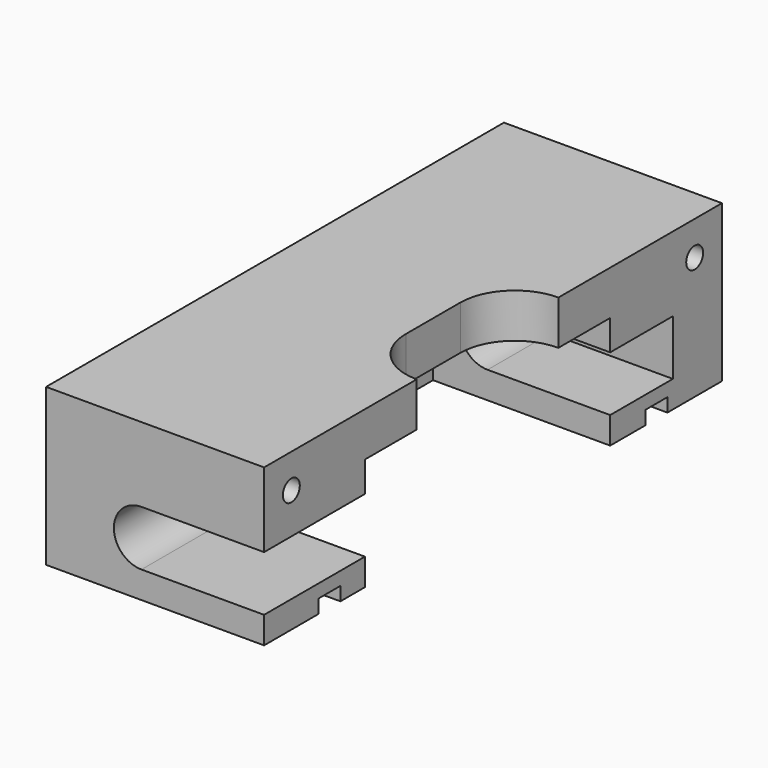
from build123d import *

# Parameters (mm, degrees)
SKETCH014_W     = 32
SKETCH014_H     = 23
PAD010_DEPTH    = 9
PAD011_DEPTH    = 11.5
SKETCH016_W     = 6
SKETCH016_H     = 23
PAD012_DEPTH    = 45
SKETCH017_W     = 26
SKETCH017_H     = 6.5
PAD013_DEPTH    = 45
PAD014_DEPTH    = 18.5
POCKET004_DEPTH = 7
SKETCH020_R     = 1.55
POCKET005_DEPTH = 32.0020324037
SKETCH023_W     = 32
SKETCH023_H     = 4
POCKET008_DEPTH = 2
SKETCH031_R     = 3
POCKET015_DEPTH = 28
SKETCH032_R     = 1.3
POCKET016_DEPTH = 9.0012093656
SKETCH033_R     = 3
POCKET017_DEPTH = 3.2


with BuildPart() as part:
    # Sketch014 (on DatumPlane) → Pad010 (new body)
    with BuildSketch(Plane(origin=(0.0002244487, 42.0000455139, 5.000075686), x_dir=(-0.999999999, 4e-10, 4.48856e-05), z_dir=(0, 1, -9.1023e-06))):
        with Locations((25.9, 0.5)):
            Rectangle(SKETCH014_W, SKETCH014_H)
    extrude(amount=-PAD010_DEPTH)

    # Sketch015 (on Face6 of Pad010) → Pad011 (join)
    with BuildSketch(Plane(origin=(0.0002244487, 33.0000455142, 5.0001576066), x_dir=(-0.999999999, 4e-10, 4.48856e-05), z_dir=(0, -1, 9.1023e-06))):
        with BuildLine():
            Line((41.9, 11), (9.9, 11))
            Line((9.9, 7.05), (9.9, 11))
            Line((27.9, 7.05), (9.9, 7.05))
            ThreePointArc((27.9, -1.05), (31.9500075634, 3), (27.9, 7.05))
            Line((9.9, -1.05), (27.9, -1.05))
            Line((9.9, -1.05), (9.9, -12))
            Line((41.9, -12), (9.9, -12))
            Line((41.9, 11), (41.9, -12))
        make_face()
    extrude(amount=PAD011_DEPTH)

    # Sketch016 (on Face3 of Pad011) → Pad012 (join)
    with BuildSketch(Plane(origin=(0.0002244487, 21.5000455147, 5.0002622829), x_dir=(-0.999999999, 4e-10, 4.48856e-05), z_dir=(0, -1, 9.1023e-06))):
        with Locations((38.9, -0.5)):
            Rectangle(SKETCH016_W, SKETCH016_H)
    extrude(amount=PAD012_DEPTH)

    # Sketch017 (on Face6 of Pad012) → Pad013 (join)
    with BuildSketch(Plane(origin=(0.0002244487, 21.5000455147, 5.0002622829), x_dir=(-0.999999999, 4e-10, 4.48856e-05), z_dir=(0, -1, 9.1023e-06))):
        with Locations((22.9, -8.75)):
            Rectangle(SKETCH017_W, SKETCH017_H)
    extrude(amount=PAD013_DEPTH)

    # Sketch018 (on Face13 of Pad013) → Pad014 (join)
    with BuildSketch(Plane(origin=(0.0002244487, -23.4999544834, 5.0006718856), x_dir=(-0.999999999, 4e-10, 4.48856e-05), z_dir=(0, -1, 9.1023e-06))):
        with BuildLine():
            Line((41.9, 11), (9.9, 11))
            Line((9.9, 11), (9.9, 7.05))
            Line((27.9, 7.05), (9.9, 7.05))
            ThreePointArc((27.9, -1.05), (31.9500081085, 3), (27.9, 7.05))
            Line((27.9, -1.05), (9.9, -1.05))
            Line((9.9, -1.05), (9.9, -12))
            Line((41.9, -12), (9.9, -12))
            Line((41.9, 11), (41.9, -12))
        make_face()
    extrude(amount=PAD014_DEPTH)

    # Sketch019 (on Face8 of Pad014) → Pocket004 (cut)
    with BuildSketch(Plane(origin=(0.0004713196, 42.0000955764, 10.5000756803), x_dir=(-0.999999999, 4e-10, 4.48856e-05), z_dir=(-4.48856e-05, -9.1023e-06, -0.999999999))):
        with BuildLine():
            ThreePointArc((17.9, -38), (9.9, -30), (1.9, -38))
            Line((1.9, -38), (1.9, -48))
            ThreePointArc((1.9, -48), (9.9, -56), (17.9, -48))
            Line((17.9, -38), (17.9, -48))
        make_face()
    extrude(amount=-POCKET004_DEPTH, mode=Mode.SUBTRACT)

    # Sketch020 (on Face13 of Pocket004) → Pocket005 (cut, through all)
    with BuildSketch(Plane(origin=(-41.8997755091, 42.000045531, 5.0019563937), x_dir=(4.48856e-05, 9.1023e-06, 0.999999999), z_dir=(-0.999999999, 4e-10, 4.48856e-05))):
        with Locations((7, -5)):
            Circle(SKETCH020_R)
        with Locations((7, -79)):
            Circle(SKETCH020_R)
    extrude(amount=-POCKET005_DEPTH, mode=Mode.SUBTRACT)

    # Sketch023 (on Face12 of Pocket005) → Pocket008 (cut)
    with BuildSketch(Plane(origin=(-0.0002692932, 41.9999453887, -5.9999243024), x_dir=(-0.999999999, 4e-10, 4.48856e-05), z_dir=(-4.48856e-05, -9.1023e-06, -0.999999999))):
        with Locations((25.9, -12)):
            Rectangle(SKETCH023_W, SKETCH023_H)
        with Locations((25.9, -72)):
            Rectangle(SKETCH023_W, SKETCH023_H)
    extrude(amount=-POCKET008_DEPTH, mode=Mode.SUBTRACT)

    # Sketch031 (on Face14 of Pocket008) → Pocket015 (cut)
    with BuildSketch(Plane(origin=(-41.8997755091, 42.000045531, 5.0019563937), x_dir=(4.48856e-05, 9.1023e-06, 0.999999999), z_dir=(-0.999999999, 4e-10, 4.48856e-05))):
        with Locations((7, -5)):
            Circle(SKETCH031_R)
        with Locations((7, -79)):
            Circle(SKETCH031_R)
    extrude(amount=-POCKET015_DEPTH, mode=Mode.SUBTRACT)

    # Sketch032 (on Face32 of Pocket015) → Pocket016 (cut, through all)
    with BuildSketch(Plane(origin=(0.0002244487, 33.0000455142, 5.0001576066), x_dir=(-0.999999999, 4e-10, 4.48856e-05), z_dir=(0, -1, 9.1023e-06))):
        with Locations((27.900008, 3)):
            Circle(SKETCH032_R)
    extrude(amount=-POCKET016_DEPTH, mode=Mode.SUBTRACT)

    # Sketch033 (on Face17 of Pocket016) → Pocket017 (cut)
    with BuildSketch(Plane(origin=(0.0002244487, 42.0000455139, 5.0000756861), x_dir=(-0.999999999, 4e-10, 4.48856e-05), z_dir=(0, 1, -9.1023e-06))):
        with Locations((27.900008, -3)):
            Circle(SKETCH033_R)
    extrude(amount=-POCKET017_DEPTH, mode=Mode.SUBTRACT)


solid = part.part
